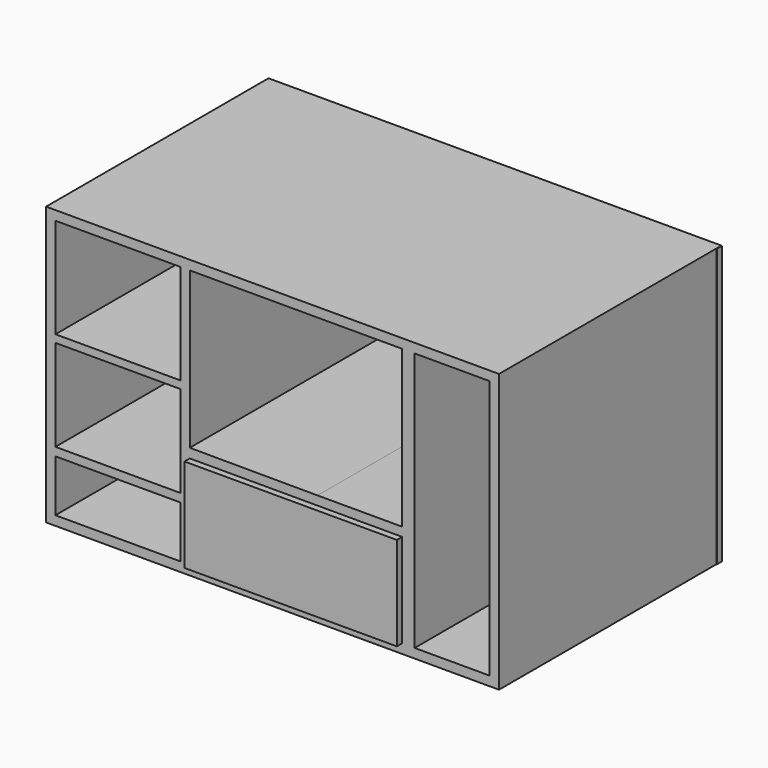
from build123d import *

# Parameters (mm, degrees)
F0_W      = 1841.5
F0_H      = 1130.3
F1_DEPTH  = 1130.3
F3_W      = 1827.532351
F3_H      = 1129.572153
F4_DEPTH  = 25.4
F5_W      = 865.357041
F5_H      = 376.358599
F6_DEPTH  = 25.4
F7_W      = 831.391633
F7_H      = 382.297545
F8_DEPTH  = 25.4
F9_W      = 863.6
F9_H      = 381
F10_DEPTH = 1131.859899


with BuildPart() as f1:
    # F0 (on Front) → F1 (new body)
    with BuildSketch(Plane.XZ):
        Rectangle(F0_W, F0_H)
        Polygon((882.65, 527.05), (882.65, -527.05), (577.85, -527.05), (527.05, -527.05), (-336.55, -527.05), (-374.65, -527.05), (-882.65, -527.05), (-882.65, -316.212654), (-882.65, -282.136858), (-882.65, 89.881361), (-882.65, 120.749831), (-882.65, 527.05), (-374.65, 527.05), (-336.55, 527.05), (527.05, 527.05), (577.85, 527.05), align=None, mode=Mode.SUBTRACT)
        Polygon((-374.65, -527.05), (-336.55, -527.05), (-336.55, -146.05), (-336.55, -107.95), (-336.55, 0), (-336.55, 527.05), (-374.65, 527.05), (-374.65, 120.749831), (-374.65, 89.881361), (-374.65, -120.674253), (-374.65, -282.136858), (-374.65, -316.212654), align=None)
        Polygon((-374.65, 89.881361), (-374.65, 120.749831), (-752.773166, 120.749831), (-882.65, 120.749831), (-882.65, 89.881361), (-408.513486, 89.881361), align=None)
        Polygon((-882.65, -316.212654), (-374.65, -316.212654), (-374.65, -282.136858), (-408.513486, -282.136858), (-882.65, -282.136858), align=None)
        Polygon((-336.55, -107.95), (-336.55, -146.05), (182.885635, -147.757417), (182.885635, -109.657417), align=None)
        Polygon((182.885635, -147.757417), (527.05, -148.888707), (527.05, -109.657417), (182.885635, -109.657417), align=None)
        Polygon((527.05, -527.05), (577.85, -527.05), (577.85, -145.718575), (577.85, 527.05), (527.05, 527.05), (527.05, -109.657417), (527.05, -148.888707), align=None)
    extrude(amount=F1_DEPTH)

    # F3 (on face) → F4 (join)
    with BuildSketch(Plane.XZ):
        with Locations((8.99306, -0.142456)):
            Rectangle(F3_W, F3_H)
    extrude(amount=F4_DEPTH)

    # F5 (on face) → F6 (join)
    with BuildSketch(Plane.XZ.offset(25.4)):
        with Locations((94.785392, -343.243077)):
            Rectangle(F5_W, F5_H)
    extrude(amount=-F6_DEPTH)

    # F7 (on face) → F8 (join)
    with BuildSketch(Plane.XZ.offset(25.4)):
        with Locations((134.62612, -372.283206)):
            Rectangle(F7_W, F7_H)
    extrude(amount=-F8_DEPTH)

    # F9 (on face) → F10 (join)
    with BuildSketch(Plane.XZ.offset(25.4)):
        with Locations((95.25, -336.55)):
            Rectangle(F9_W, F9_H)
    extrude(amount=F10_DEPTH)


solid = f1.part
